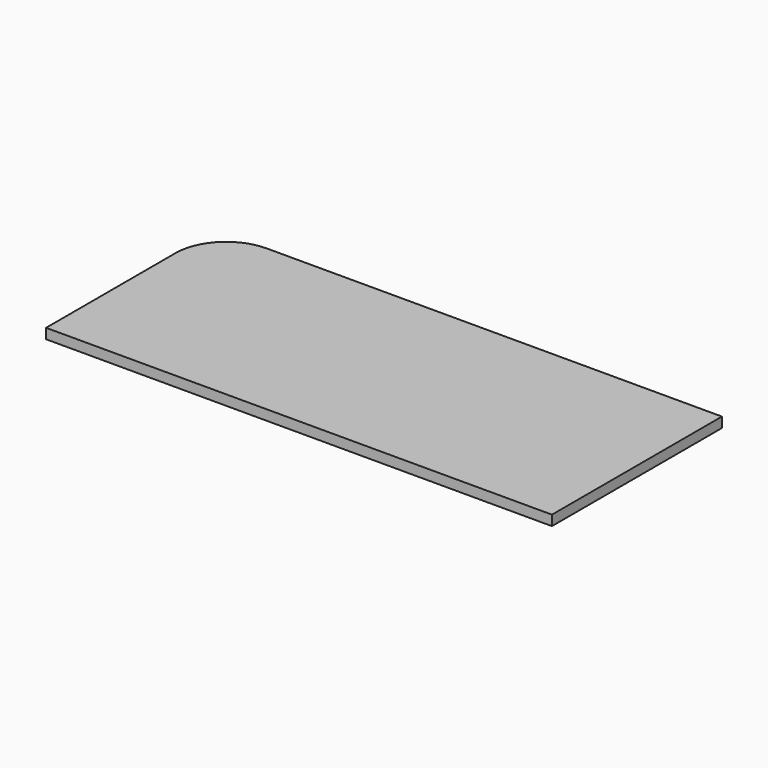
from build123d import *

# Parameters (mm, degrees)
F1_DEPTH = 3


with BuildPart() as f1:
    # F0 (on Top) → F1 (new body)
    with BuildSketch(Plane.XY):
        with BuildLine():
            Line((101.730692, 39.367754), (-33.269308, 39.367754))
            ThreePointArc((-33.269308, 39.367754), (-43.87591, 34.974356), (-48.269308, 24.367754))
            Line((-48.269308, 24.367754), (-48.269308, -23.632246))
            Line((-48.269308, -23.632246), (101.730692, -23.632246))
            Line((101.730692, -23.632246), (101.730692, 39.367754))
        make_face()
    extrude(amount=F1_DEPTH)


solid = f1.part
